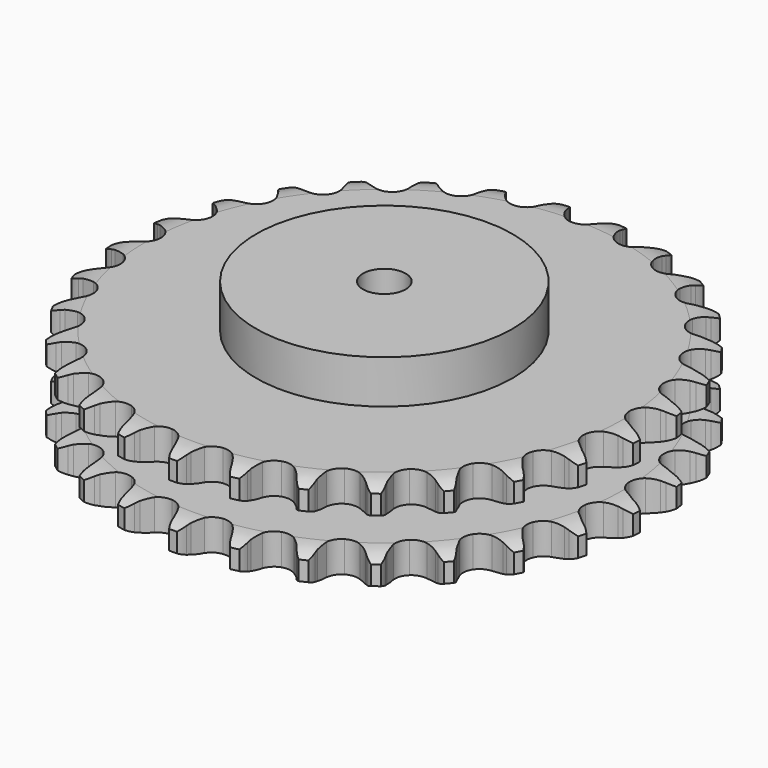
from build123d import *

# Parameters (mm, degrees)
PAD_DEPTH         = 54.6
SKETCH001_R       = 75
PAD001_DEPTH      = 80
SKETCH002_R       = 12.5
POCKET_DEPTH      = 0.001
POCKET_DEPTH_BACK = 80.001


with BuildPart() as part:
    # Sprocket → Pad (new body)
    with BuildSketch(Plane.XY):
        with BuildLine():
            ThreePointArc((-16.996532, 156.280534), (-14.017915, 153.250647), (-11.968629, 149.528712))
            Line((-11.968629, 149.528712), (-11.039994, 147.109533))
            ThreePointArc((-11.039994, 147.109533), (-9.567522, 143.954287), (-7.668499, 141.035819))
            ThreePointArc((-7.668499, 141.035819), (-4.283107, 138.225385), (0, 137.218207))
            ThreePointArc((0, 137.218207), (4.283107, 138.225385), (7.668499, 141.035819))
            ThreePointArc((7.668499, 141.035819), (9.567522, 143.954287), (11.039994, 147.109533))
            Line((11.039994, 147.109533), (11.968629, 149.528712))
            ThreePointArc((11.968629, 149.528712), (14.017915, 153.250647), (16.996532, 156.280534))
            ThreePointArc((16.996532, 156.280534), (19.254175, 152.681169), (20.455443, 148.605715))
            Line((20.455443, 148.605715), (20.842316, 146.043466))
            ThreePointArc((20.842316, 146.043466), (21.602077, 142.64545), (22.829318, 139.38698))
            ThreePointArc((22.829318, 139.38698), (25.531401, 135.914493), (29.497858, 134.010122))
            ThreePointArc((29.497858, 134.010122), (33.897342, 134.07301), (37.807746, 136.089979))
            Line((37.807746, 136.089979), (42.406086, 141.296922))
            ThreePointArc((42.406086, 141.296922), (43.091362, 142.397029), (43.833062, 143.459912))
            ThreePointArc((43.833062, 143.459912), (46.634543, 146.654295), (50.194858, 148.97303))
            ThreePointArc((50.194858, 148.97303), (51.625961, 144.97249), (51.923043, 140.73408))
            Line((51.923043, 140.73408), (51.750063, 138.148569))
            ThreePointArc((51.750063, 138.148569), (51.761588, 134.666671), (52.259662, 131.220561))
            ThreePointArc((52.259662, 131.220561), (54.15209, 127.248392), (57.61643, 124.535872))
            ThreePointArc((57.61643, 124.535872), (61.926575, 123.651531), (66.179144, 124.780723))
            Line((66.179144, 124.780723), (71.789317, 128.877423))
            ThreePointArc((71.789317, 128.877423), (72.695062, 129.804497), (73.64791, 130.683086))
            ThreePointArc((73.64791, 130.683086), (77.070592, 133.200551), (81.046128, 134.699712))
            ThreePointArc((81.046128, 134.699712), (81.583775, 130.485058), (80.962778, 126.281876))
            Line((80.962778, 126.281876), (80.238034, 123.793999))
            ThreePointArc((80.238034, 123.793999), (79.500785, 120.391028), (79.246402, 116.918415))
            ThreePointArc((79.246402, 116.918415), (80.240687, 112.632296), (83.040921, 109.238463))
            ThreePointArc((83.040921, 109.238463), (87.060191, 107.448244), (91.45608, 107.63686))
            Line((91.45608, 107.63686), (97.815759, 110.43176))
            ThreePointArc((97.815759, 110.43176), (98.899622, 111.14245), (100.019064, 111.795665))
            ThreePointArc((100.019064, 111.795665), (103.902905, 113.518497), (108.107771, 114.127986))
            ThreePointArc((108.107771, 114.127986), (107.726822, 109.89629), (106.216784, 105.924872))
            Line((106.216784, 105.924872), (104.974164, 103.650958))
            ThreePointArc((104.974164, 103.650958), (103.522613, 100.486034), (102.527668, 97.149293))
            ThreePointArc((102.527668, 97.149293), (102.577318, 92.74964), (104.582511, 88.833185))
            ThreePointArc((104.582511, 88.833185), (108.122968, 86.220796), (112.45663, 85.460016))
            Line((112.45663, 85.460016), (119.268445, 86.82243))
            ThreePointArc((119.268445, 86.82243), (120.479745, 87.283506), (121.713437, 87.680802))
            ThreePointArc((121.713437, 87.680802), (125.876834, 88.528444), (130.114415, 88.219762))
            ThreePointArc((130.114415, 88.219762), (128.832683, 84.168893), (126.504211, 80.614939))
            Line((126.504211, 80.614939), (124.801818, 78.661314))
            ThreePointArc((124.801818, 78.661314), (122.703838, 75.882424), (121.014855, 72.837579))
            ThreePointArc((121.014855, 72.837579), (120.117549, 68.530114), (121.233939, 64.274166))
            ThreePointArc((121.233939, 64.274166), (124.130036, 60.96176), (128.198834, 59.287157))
            Line((128.198834, 59.287157), (135.144271, 59.15338))
            ThreePointArc((135.144271, 59.15338), (136.426369, 59.343283), (137.716625, 59.466082))
            ThreePointArc((137.716625, 59.466082), (141.964902, 59.3989), (146.037053, 58.18648))
            ThreePointArc((146.037053, 58.18648), (143.91447, 54.505853), (140.876441, 51.535541))
            Line((140.876441, 51.535541), (138.793878, 49.993555))
            ThreePointArc((138.793878, 49.993555), (136.147569, 47.730637), (133.843521, 45.12006))
            ThreePointArc((133.843521, 45.12006), (132.041216, 41.106196), (132.216602, 36.709759))
            ThreePointArc((132.216602, 36.709759), (134.332921, 32.852219), (137.946603, 30.342096))
            Line((137.946603, 30.342096), (144.700901, 28.718383))
            ThreePointArc((144.700901, 28.718383), (145.993848, 28.628233), (147.280336, 28.470795))
            ThreePointArc((147.280336, 28.470795), (151.414849, 27.491929), (155.131161, 25.432463))
            ThreePointArc((155.131161, 25.432463), (152.266977, 22.294179), (148.661446, 20.046398))
            Line((148.661446, 20.046398), (146.296091, 18.988152))
            ThreePointArc((146.296091, 18.988152), (143.225191, 17.347019), (140.413813, 15.292778))
            ThreePointArc((140.413813, 15.292778), (137.790782, 11.760197), (137.016965, 7.428844))
            ThreePointArc((137.016965, 7.428844), (138.254548, 3.206546), (141.244142, -0.021727))
            Line((141.244142, -0.021727), (147.491477, -3.059453))
            ThreePointArc((147.491477, -3.059453), (148.734817, -3.425441), (149.957383, -3.855755))
            ThreePointArc((149.957383, -3.855755), (153.784806, -5.700534), (156.971509, -8.510748))
            ThreePointArc((156.971509, -8.510748), (153.499649, -10.959945), (149.495207, -12.380093))
            Line((149.495207, -12.380093), (146.957661, -12.905115))
            ThreePointArc((146.957661, -12.905115), (143.605761, -13.847727), (140.418512, -15.249578))
            ThreePointArc((140.418512, -15.249578), (137.097405, -18.135695), (135.410566, -22.199435))
            ThreePointArc((135.410566, -22.199435), (135.711546, -26.589063), (137.937261, -30.384534))
            Line((137.937261, -30.384534), (143.385517, -34.694233))
            ThreePointArc((143.385517, -34.694233), (144.521111, -35.318945), (145.62259, -36.002014))
            ThreePointArc((145.62259, -36.002014), (148.963957, -38.626446), (151.472043, -42.056006))
            ThreePointArc((151.472043, -42.056006), (147.554849, -43.701595), (143.338738, -44.227703))
            Line((143.338738, -44.227703), (140.747654, -44.194954))
            ThreePointArc((140.747654, -44.194954), (137.271487, -44.394969), (133.857396, -45.078881))
            ThreePointArc((133.857396, -45.078881), (129.993506, -47.183582), (127.47252, -50.789694))
            ThreePointArc((127.47252, -50.789694), (126.822823, -55.141396), (128.180588, -59.326595))
            Line((128.180588, -59.326595), (132.575009, -64.706748))
            ThreePointArc((132.575009, -64.706748), (133.549758, -65.560975), (134.478646, -66.46486))
            ThreePointArc((134.478646, -66.46486), (137.177718, -69.746229), (138.889913, -73.634771))
            ThreePointArc((138.889913, -73.634771), (134.710547, -74.399807), (130.47991, -74.007276))
            Line((130.47991, -74.007276), (127.956444, -73.418286))
            ThreePointArc((127.956444, -73.418286), (124.51855, -72.866351), (121.037258, -72.800345))
            ThreePointArc((121.037258, -72.800345), (116.811255, -74.025217), (113.574, -77.005083))
            ThreePointArc((113.574, -77.005083), (112.004006, -81.115379), (112.430333, -85.494609))
            Line((112.430333, -85.494609), (115.56544, -91.693649))
            ThreePointArc((115.56544, -91.693649), (116.333768, -92.737446), (117.046629, -93.819882))
            ThreePointArc((117.046629, -93.819882), (118.977202, -97.604755), (119.813444, -101.770457))
            ThreePointArc((119.813444, -101.770457), (115.56733, -101.619166), (111.519985, -100.326351))
            Line((111.519985, -100.326351), (109.182132, -99.20866))
            ThreePointArc((109.182132, -99.20866), (105.943263, -97.930584), (102.557552, -97.117746))
            ThreePointArc((102.557552, -97.117746), (98.167039, -97.405516), (94.364887, -99.6198))
            ThreePointArc((94.364887, -99.6198), (91.948006, -103.296497), (91.422961, -107.664991))
            Line((91.422961, -107.664991), (93.152161, -114.393056))
            ThreePointArc((93.152161, -114.393056), (93.678139, -115.577617), (94.141643, -116.787991))
            ThreePointArc((94.141643, -116.787991), (95.213444, -120.899391), (95.134633, -125.147469))
            ThreePointArc((95.134633, -125.147469), (91.020313, -124.086926), (87.34551, -121.954277))
            Line((87.34551, -121.954277), (85.302585, -120.360148))
            ThreePointArc((85.302585, -120.360148), (82.414188, -118.415691), (79.282369, -116.894029))
            ThreePointArc((79.282369, -116.894029), (74.932641, -116.23124), (70.743376, -117.576405))
            ThreePointArc((70.743376, -117.576405), (67.592619, -120.647585), (66.140752, -124.801077))
            Line((66.140752, -124.801077), (66.383189, -131.74357))
            ThreePointArc((66.383189, -131.74357), (66.642225, -133.013507), (66.834698, -134.295223))
            ThreePointArc((66.834698, -134.295223), (66.997611, -138.540907), (66.007431, -142.672725))
            ThreePointArc((66.007431, -142.672725), (62.217288, -140.75252), (59.086856, -137.879756))
            Line((59.086856, -137.879756), (57.434384, -135.883729))
            ThreePointArc((57.434384, -135.883729), (55.031517, -133.363812), (52.30003, -131.204477))
            ThreePointArc((52.30003, -131.204477), (48.194477, -129.622121), (43.813983, -130.035269))
            ThreePointArc((43.813983, -130.035269), (40.076677, -132.357327), (37.765876, -136.101604))
            Line((37.765876, -136.101604), (36.510214, -142.933902))
            ThreePointArc((36.510214, -142.933902), (36.490195, -144.229834), (36.402637, -145.522959))
            ThreePointArc((36.402637, -145.522959), (35.649044, -149.704403), (33.793796, -153.526762))
            ThreePointArc((33.793796, -153.526762), (30.505051, -150.836682), (28.065366, -147.358131))
            Line((28.065366, -147.358131), (26.880615, -145.053537))
            ThreePointArc((26.880615, -145.053537), (25.075633, -142.07599), (22.8722, -139.37995))
            ThreePointArc((22.8722, -139.37995), (19.202792, -136.952016), (14.835898, -136.413828))
            ThreePointArc((14.835898, -136.413828), (10.686793, -137.878187), (7.625109, -141.038171))
            Line((7.625109, -141.038171), (4.930061, -147.440804))
            ThreePointArc((4.930061, -147.440804), (4.631923, -148.702134), (4.268429, -149.946204))
            ThreePointArc((4.268429, -149.946204), (2.633568, -153.867888), (0, -157.202059))
            ThreePointArc((0, -157.202059), (-2.633568, -153.867888), (-4.268429, -149.946204))
            Line((-4.268429, -149.946204), (-4.930061, -147.440804))
            ThreePointArc((-4.930061, -147.440804), (-6.052759, -144.144852), (-7.625109, -141.038171))
            ThreePointArc((-7.625109, -141.038171), (-10.686793, -137.878187), (-14.835898, -136.413828))
            ThreePointArc((-14.835898, -136.413828), (-19.202792, -136.952016), (-22.8722, -139.37995))
            Line((-22.8722, -139.37995), (-26.880615, -145.053537))
            ThreePointArc((-26.880615, -145.053537), (-27.442932, -146.221287), (-28.065366, -147.358131))
            ThreePointArc((-28.065366, -147.358131), (-30.505051, -150.836682), (-33.793796, -153.526762))
            ThreePointArc((-33.793796, -153.526762), (-35.649044, -149.704403), (-36.402637, -145.522959))
            Line((-36.402637, -145.522959), (-36.510214, -142.933902))
            ThreePointArc((-36.510214, -142.933902), (-36.898131, -139.473661), (-37.765876, -136.101604))
            ThreePointArc((-37.765876, -136.101604), (-40.076677, -132.357327), (-43.813983, -130.035269))
            ThreePointArc((-43.813983, -130.035269), (-48.194477, -129.622121), (-52.30003, -131.204477))
            Line((-52.30003, -131.204477), (-57.434384, -135.883729))
            ThreePointArc((-57.434384, -135.883729), (-58.234586, -136.903296), (-59.086856, -137.879756))
            ThreePointArc((-59.086856, -137.879756), (-62.217288, -140.75252), (-66.007431, -142.672725))
            ThreePointArc((-66.007431, -142.672725), (-66.997611, -138.540907), (-66.834698, -134.295223))
            Line((-66.834698, -134.295223), (-66.383189, -131.74357))
            ThreePointArc((-66.383189, -131.74357), (-66.018188, -128.280837), (-66.140752, -124.801077))
            ThreePointArc((-66.140752, -124.801077), (-67.592619, -120.647585), (-70.743376, -117.576405))
            ThreePointArc((-70.743376, -117.576405), (-74.932641, -116.23124), (-79.282369, -116.894029))
            Line((-79.282369, -116.894029), (-85.302585, -120.360148))
            ThreePointArc((-85.302585, -120.360148), (-86.303255, -121.183858), (-87.34551, -121.954277))
            ThreePointArc((-87.34551, -121.954277), (-91.020313, -124.086926), (-95.134633, -125.147469))
            ThreePointArc((-95.134633, -125.147469), (-95.213444, -120.899391), (-94.141643, -116.787991))
            Line((-94.141643, -116.787991), (-93.152161, -114.393056))
            ThreePointArc((-93.152161, -114.393056), (-92.051307, -111.089743), (-91.422961, -107.664991))
            ThreePointArc((-91.422961, -107.664991), (-91.948006, -103.296497), (-94.364887, -99.6198))
            ThreePointArc((-94.364887, -99.6198), (-98.167039, -97.405516), (-102.557552, -97.117746))
            Line((-102.557552, -97.117746), (-109.182132, -99.20866))
            ThreePointArc((-109.182132, -99.20866), (-110.33648, -99.797998), (-111.519985, -100.326351))
            ThreePointArc((-111.519985, -100.326351), (-115.56733, -101.619166), (-119.813444, -101.770457))
            ThreePointArc((-119.813444, -101.770457), (-118.977202, -97.604755), (-117.046629, -93.819882))
            Line((-117.046629, -93.819882), (-115.56544, -91.693649))
            ThreePointArc((-115.56544, -91.693649), (-113.78021, -88.704217), (-112.430333, -85.494609))
            ThreePointArc((-112.430333, -85.494609), (-112.004006, -81.115379), (-113.574, -77.005083))
            ThreePointArc((-113.574, -77.005083), (-116.811255, -74.025217), (-121.037258, -72.800345))
            Line((-121.037258, -72.800345), (-127.956444, -73.418286))
            ThreePointArc((-127.956444, -73.418286), (-129.210494, -73.745695), (-130.47991, -74.007276))
            ThreePointArc((-130.47991, -74.007276), (-134.710547, -74.399807), (-138.889913, -73.634771))
            ThreePointArc((-138.889913, -73.634771), (-137.177718, -69.746229), (-134.478646, -66.46486))
            Line((-134.478646, -66.46486), (-132.575009, -64.706748))
            ThreePointArc((-132.575009, -64.706748), (-130.188876, -62.17098), (-128.180588, -59.326595))
            ThreePointArc((-128.180588, -59.326595), (-126.822823, -55.141396), (-127.47252, -50.789694))
            ThreePointArc((-127.47252, -50.789694), (-129.993506, -47.183582), (-133.857396, -45.078881))
            Line((-133.857396, -45.078881), (-140.747654, -44.194954))
            ThreePointArc((-140.747654, -44.194954), (-142.042769, -44.245125), (-143.338738, -44.227703))
            ThreePointArc((-143.338738, -44.227703), (-147.554849, -43.701595), (-151.472043, -42.056006))
            ThreePointArc((-151.472043, -42.056006), (-148.963957, -38.626446), (-145.62259, -36.002014))
            Line((-145.62259, -36.002014), (-143.385517, -34.694233))
            ThreePointArc((-143.385517, -34.694233), (-140.510056, -32.730697), (-137.937261, -30.384534))
            ThreePointArc((-137.937261, -30.384534), (-135.711546, -26.589063), (-135.410566, -22.199435))
            ThreePointArc((-135.410566, -22.199435), (-137.097405, -18.135695), (-140.418512, -15.249578))
            Line((-140.418512, -15.249578), (-146.957661, -12.905115))
            ThreePointArc((-146.957661, -12.905115), (-148.233282, -12.675702), (-149.495207, -12.380093))
            ThreePointArc((-149.495207, -12.380093), (-153.499649, -10.959945), (-156.971509, -8.510748))
            ThreePointArc((-156.971509, -8.510748), (-153.784806, -5.700534), (-149.957383, -3.855755))
            Line((-149.957383, -3.855755), (-147.491477, -3.059453))
            ThreePointArc((-147.491477, -3.059453), (-144.261141, -1.759963), (-141.244142, -0.021727))
            ThreePointArc((-141.244142, -0.021727), (-138.254548, 3.206546), (-137.016965, 7.428844))
            ThreePointArc((-137.016965, 7.428844), (-137.790782, 11.760197), (-140.413813, 15.292778))
            Line((-140.413813, 15.292778), (-146.296091, 18.988152))
            ThreePointArc((-146.296091, 18.988152), (-147.492572, 19.486423), (-148.661446, 20.046398))
            ThreePointArc((-148.661446, 20.046398), (-152.266977, 22.294179), (-155.131161, 25.432463))
            ThreePointArc((-155.131161, 25.432463), (-151.414849, 27.491929), (-147.280336, 28.470795))
            Line((-147.280336, 28.470795), (-144.700901, 28.718383))
            ThreePointArc((-144.700901, 28.718383), (-141.266736, 29.293065), (-137.946603, 30.342096))
            ThreePointArc((-137.946603, 30.342096), (-134.332921, 32.852219), (-132.216602, 36.709759))
            ThreePointArc((-132.216602, 36.709759), (-132.041216, 41.106196), (-133.843521, 45.12006))
            Line((-133.843521, 45.12006), (-138.793878, 49.993555))
            ThreePointArc((-138.793878, 49.993555), (-139.855272, 50.737385), (-140.876441, 51.535541))
            ThreePointArc((-140.876441, 51.535541), (-143.91447, 54.505853), (-146.037053, 58.18648))
            ThreePointArc((-146.037053, 58.18648), (-141.964902, 59.3989), (-137.716625, 59.466082))
            Line((-137.716625, 59.466082), (-135.144271, 59.15338))
            ThreePointArc((-135.144271, 59.15338), (-131.666855, 58.976382), (-128.198834, 59.287157))
            ThreePointArc((-128.198834, 59.287157), (-124.130036, 60.96176), (-121.233939, 64.274166))
            ThreePointArc((-121.233939, 64.274166), (-120.117549, 68.530114), (-121.014855, 72.837579))
            Line((-121.014855, 72.837579), (-124.801818, 78.661314))
            ThreePointArc((-124.801818, 78.661314), (-125.678496, 79.615922), (-126.504211, 80.614939))
            ThreePointArc((-126.504211, 80.614939), (-128.832683, 84.168893), (-130.114415, 88.219762))
            ThreePointArc((-130.114415, 88.219762), (-125.876834, 88.528444), (-121.713437, 87.680802))
            Line((-121.713437, 87.680802), (-119.268445, 86.82243))
            ThreePointArc((-119.268445, 86.82243), (-115.910378, 85.902029), (-112.45663, 85.460016))
            ThreePointArc((-112.45663, 85.460016), (-108.122968, 86.220796), (-104.582511, 88.833185))
            ThreePointArc((-104.582511, 88.833185), (-102.577318, 92.74964), (-102.527668, 97.149293))
            Line((-102.527668, 97.149293), (-104.974164, 103.650958))
            ThreePointArc((-104.974164, 103.650958), (-105.625133, 104.771708), (-106.216784, 105.924872))
            ThreePointArc((-106.216784, 105.924872), (-107.726822, 109.89629), (-108.107771, 114.127986))
            ThreePointArc((-108.107771, 114.127986), (-103.902905, 113.518497), (-100.019064, 111.795665))
            Line((-100.019064, 111.795665), (-97.815759, 110.43176))
            ThreePointArc((-97.815759, 110.43176), (-94.734061, 108.810992), (-91.45608, 107.63686))
            ThreePointArc((-91.45608, 107.63686), (-87.060191, 107.448244), (-83.040921, 109.238463))
            ThreePointArc((-83.040921, 109.238463), (-80.240687, 112.632296), (-79.246402, 116.918415))
            Line((-79.246402, 116.918415), (-80.238034, 123.793999))
            ThreePointArc((-80.238034, 123.793999), (-80.632856, 125.028485), (-80.962778, 126.281876))
            ThreePointArc((-80.962778, 126.281876), (-81.583775, 130.485058), (-81.046128, 134.699712))
            ThreePointArc((-81.046128, 134.699712), (-77.070592, 133.200551), (-73.64791, 130.683086))
            Line((-73.64791, 130.683086), (-71.789317, 128.877423))
            ThreePointArc((-71.789317, 128.877423), (-69.128084, 126.632074), (-66.179144, 124.780723))
            ThreePointArc((-66.179144, 124.780723), (-61.926575, 123.651531), (-57.61643, 124.535872))
            ThreePointArc((-57.61643, 124.535872), (-54.15209, 127.248392), (-52.259662, 131.220561))
            Line((-52.259662, 131.220561), (-51.750063, 138.148569))
            ThreePointArc((-51.750063, 138.148569), (-51.870276, 139.439069), (-51.923043, 140.73408))
            ThreePointArc((-51.923043, 140.73408), (-51.625961, 144.97249), (-50.194858, 148.97303))
            ThreePointArc((-50.194858, 148.97303), (-46.634543, 146.654295), (-43.833062, 143.459912))
            Line((-43.833062, 143.459912), (-42.406086, 141.296922))
            ThreePointArc((-42.406086, 141.296922), (-40.289755, 138.531981), (-37.807746, 136.089979))
            ThreePointArc((-37.807746, 136.089979), (-33.897342, 134.07301), (-29.497858, 134.010122))
            ThreePointArc((-29.497858, 134.010122), (-25.531401, 135.914493), (-22.829318, 139.38698))
            Line((-22.829318, 139.38698), (-20.842316, 146.043466))
            ThreePointArc((-20.842316, 146.043466), (-20.6823, 147.329637), (-20.455443, 148.605715))
            ThreePointArc((-20.455443, 148.605715), (-19.254175, 152.681169), (-16.996532, 156.280534))
        make_face()
    extrude(amount=PAD_DEPTH)

    # Sketch → Groove (revolve, cut)
    with BuildSketch(Plane.XZ):
        with BuildLine():
            ThreePointArc((139.848368, 0), (147.331683, 0.887302), (154.4, 3.5))
            Line((154.4, 3.5), (154.4, 14.7))
            ThreePointArc((154.4, 14.7), (147.331683, 17.312698), (139.848368, 18.2))
            Line((75, 18.2), (139.848368, 18.2))
            Line((75, 36.4), (75, 18.2))
            Line((139.848368, 36.4), (75, 36.4))
            ThreePointArc((139.848368, 36.4), (147.331683, 37.287302), (154.4, 39.9))
            Line((154.4, 39.9), (154.4, 51.1))
            ThreePointArc((154.4, 51.1), (147.331683, 53.712698), (139.848368, 54.6))
            Line((139.848368, 54.6), (164.4, 54.6))
            Line((164.4, 54.6), (164.4, 0))
            Line((139.848368, 0), (164.4, 0))
        make_face()
    revolve(axis=Axis((0, 0, 0), (0, 0, 1)), mode=Mode.SUBTRACT)

    # Sketch001 → Pad001 (join)
    with BuildSketch(Plane.XY):
        Circle(SKETCH001_R)
    extrude(amount=PAD001_DEPTH)

    # Sketch002 → Pocket (cut, two sides)
    with BuildSketch(Plane.XY) as pocket_sk:
        Circle(SKETCH002_R)
    extrude(amount=-POCKET_DEPTH, mode=Mode.SUBTRACT)
    extrude(pocket_sk.sketch, amount=POCKET_DEPTH_BACK, mode=Mode.SUBTRACT)


solid = part.part
